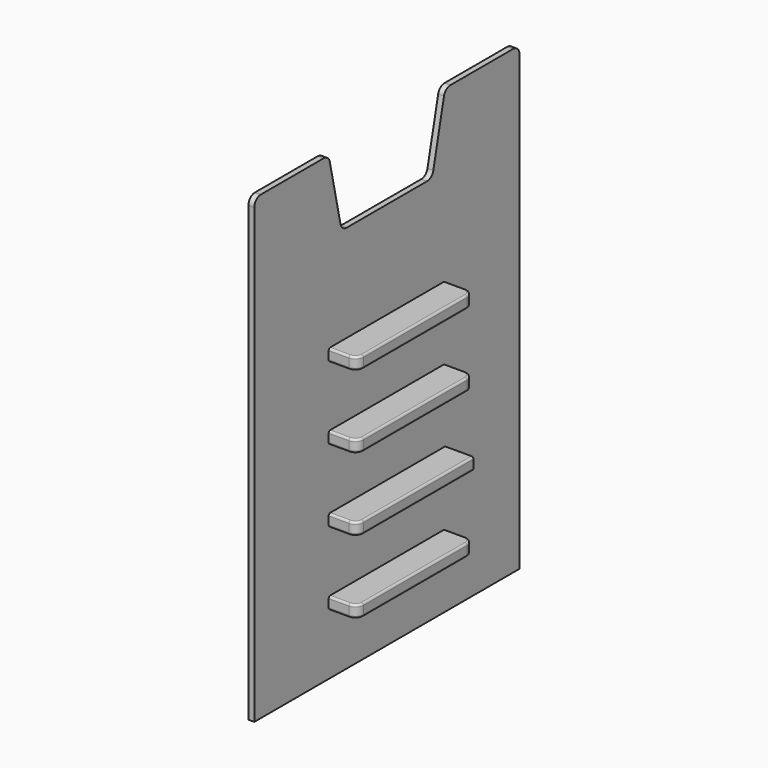
from build123d import *

# Parameters (mm, degrees)
F1_DEPTH = 18.25625
F2_W     = 457.2
F2_H     = 38.1
F3_DEPTH = 88.9
F4_R     = 25.4
F5_R     = 6.35


with BuildPart() as f1:
    # F0 (on Right) → F1 (new body)
    with BuildSketch(Plane.YZ):
        with BuildLine():
            Line((0, 1422.4), (0, 0))
            Line((0, 0), (1041.4, 0))
            Line((1041.4, 0), (1041.4, 1422.4))
            ThreePointArc((1041.4, 1422.4), (1033.960512, 1440.360512), (1016, 1447.8))
            Line((1016, 1447.8), (769.675159, 1447.8))
            ThreePointArc((769.675159, 1447.8), (753.781683, 1442.213062), (744.880007, 1427.910034))
            Line((744.880007, 1427.910034), (702.919993, 1239.089966))
            ThreePointArc((702.919993, 1239.089966), (694.018317, 1224.786938), (678.124841, 1219.2))
            Line((678.124841, 1219.2), (363.275159, 1219.2))
            ThreePointArc((363.275159, 1219.2), (347.381683, 1224.786938), (338.480007, 1239.089966))
            Line((338.480007, 1239.089966), (296.519993, 1427.910034))
            ThreePointArc((296.519993, 1427.910034), (287.618317, 1442.213062), (271.724841, 1447.8))
            Line((271.724841, 1447.8), (25.4, 1447.8))
            ThreePointArc((25.4, 1447.8), (7.439488, 1440.360512), (0, 1422.4))
        make_face()
    extrude(amount=F1_DEPTH)

    # F2 (on face) → F3 (join)
    with BuildSketch(Plane.YZ.offset(18.25625)):
        with Locations((520.7, 209.55)):
            Rectangle(F2_W, F2_H)
        with Locations((520.7, 438.15)):
            Rectangle(F2_W, F2_H)
        with Locations((520.7, 666.75)):
            Rectangle(F2_W, F2_H)
        with Locations((520.7, 895.35)):
            Rectangle(F2_W, F2_H)
    extrude(amount=F3_DEPTH)

    # F4
    f4_edges = [f1.edges().sort_by_distance(p)[0] for p in [
        (107.15625, 292.1, 895.35),
        (107.15625, 749.3, 895.35),
        (107.15625, 292.1, 666.75),
        (107.15625, 749.3, 666.75),
        (107.15625, 292.1, 438.15),
        (107.15625, 292.1, 209.55),
        (107.15625, 749.3, 209.55),
    ]]
    fillet(f4_edges, radius=F4_R)

    # F5
    f5_edges = [f1.edges().sort_by_distance(p)[0] for p in [
        (50.00625, 292.1, 914.4),
        (50.00625, 292.1, 876.3),
        (50.00625, 292.1, 685.8),
        (50.00625, 292.1, 647.7),
        (50.00625, 292.1, 457.2),
        (50.00625, 292.1, 419.1),
        (50.00625, 292.1, 228.6),
        (50.00625, 292.1, 190.5),
    ]]
    fillet(f5_edges, radius=F5_R)


solid = f1.part
